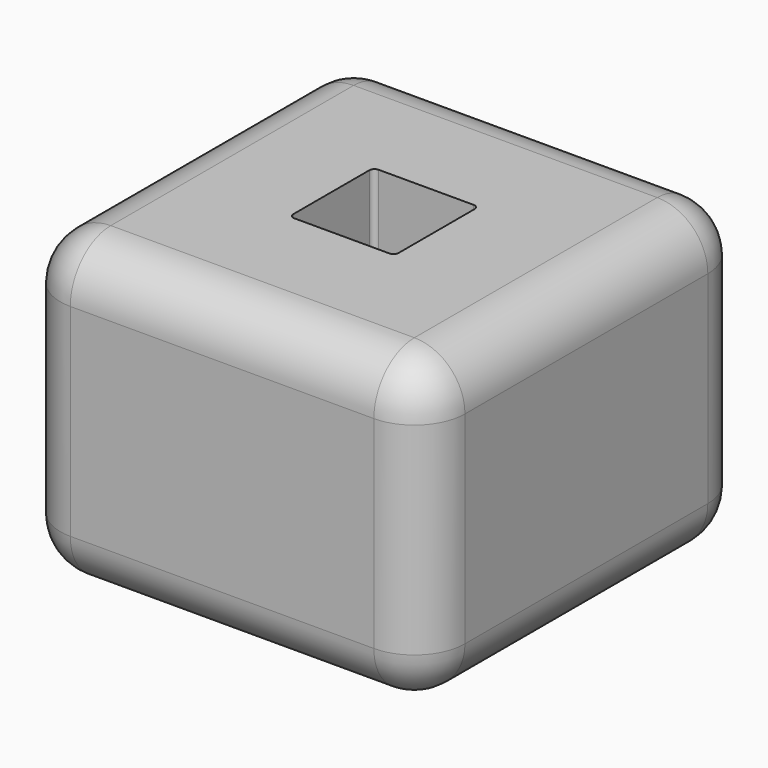
from build123d import *

# Parameters (mm, degrees)
F0_W     = 400
F0_H     = 400
F0_W_2   = 104.0003
F0_H_2   = 104.0003
F1_DEPTH = 300
F2_R     = 50
F3_R     = 5


with BuildPart() as f1:
    # F0 (on Top) → F1 (new body)
    with BuildSketch(Plane.XY):
        with Locations((25.848805, -81.028401)):
            Rectangle(F0_W, F0_H)
        with Locations((25.848655, -81.028551)):
            Rectangle(F0_W_2, F0_H_2, mode=Mode.SUBTRACT)
    extrude(amount=F1_DEPTH)

    # F2
    f2_edges = [f1.edges().sort_by_distance(p)[0] for p in [
        (-174.151195, -281.028401, 150),
        (225.848805, -281.028401, 150),
        (25.848805, -281.028401, 0),
        (25.848805, -281.028401, 300),
        (225.848805, 118.971599, 150),
        (225.848805, -81.028401, 0),
        (225.848805, -81.028401, 300),
        (-174.151195, 118.971599, 150),
        (25.848805, 118.971599, 0),
        (25.848805, 118.971599, 300),
        (-174.151195, -81.028401, 0),
        (-174.151195, -81.028401, 300),
    ]]
    fillet(f2_edges, radius=F2_R)

    # F3
    f3_edges = [f1.edges().sort_by_distance(p)[0] for p in [
        (-26.151495, -29.028401, 150),
        (77.848805, -29.028401, 150),
        (77.848805, -133.028701, 150),
        (-26.151495, -133.028701, 150),
    ]]
    fillet(f3_edges, radius=F3_R)


solid = f1.part
